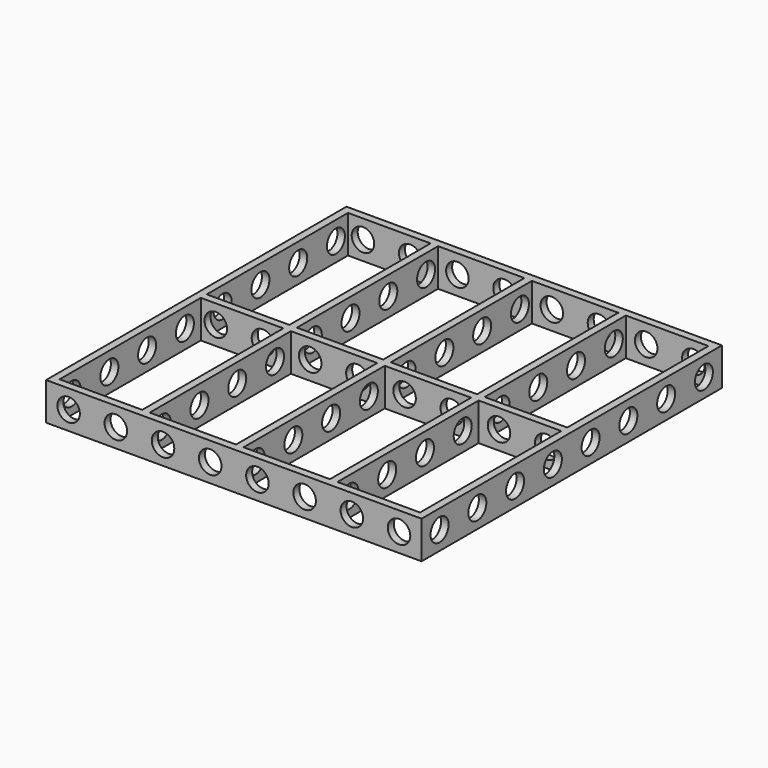
from build123d import *

# Parameters (mm, degrees)
SKETCH_W               = 100
SKETCH_H               = 100
SKETCH_W_2             = 96
SKETCH_H_2             = 96
PAD_DEPTH              = 10
SKETCH001_W            = 2
SKETCH001_H            = 100
PAD001_DEPTH           = 10
LINEARPATTERN_COUNT    = 2
LINEARPATTERN_PITCH    = 25
LINEARPATTERN001_COUNT = 2
LINEARPATTERN001_PITCH = 25
SKETCH002_W            = 100
SKETCH002_H            = 2
PAD002_DEPTH           = 10
SKETCH003_R            = 3
POCKET_DEPTH           = 100.001
LINEARPATTERN002_COUNT = 8
LINEARPATTERN002_PITCH = 12.571429
SKETCH004_R            = 3
POCKET001_DEPTH        = 100.001
LINEARPATTERN003_COUNT = 8
LINEARPATTERN003_PITCH = 12.571429


with BuildPart() as part:
    # Sketch → Pad (new body)
    with BuildSketch(Plane.XY):
        Rectangle(SKETCH_W, SKETCH_H)
        Rectangle(SKETCH_W_2, SKETCH_H_2, mode=Mode.SUBTRACT)
    extrude(amount=PAD_DEPTH)

    # Sketch001 → Pad001 (join)
    with BuildSketch(Plane.XY):
        Rectangle(SKETCH001_W, SKETCH001_H)
    pad001 = extrude(amount=PAD001_DEPTH)

    # LinearPattern: Pad001 ×2
    with Locations(*[(i * LINEARPATTERN_PITCH, 0, 0) for i in range(1, LINEARPATTERN_COUNT)]):
        add(pad001)

    # LinearPattern001: Pad001 ×2
    with Locations(*[(-i * LINEARPATTERN001_PITCH, 0, 0) for i in range(1, LINEARPATTERN001_COUNT)]):
        add(pad001)

    # Sketch002 → Pad002 (join)
    with BuildSketch(Plane.XY):
        Rectangle(SKETCH002_W, SKETCH002_H)
    extrude(amount=PAD002_DEPTH)

    # Sketch003 (on Face76 of Pad002) → Pocket (cut, through all)
    with BuildSketch(Plane.YZ.offset(50)):
        with Locations((-44, 5)):
            Circle(SKETCH003_R)
    pocket = extrude(amount=-POCKET_DEPTH, mode=Mode.SUBTRACT)

    # LinearPattern002: Pocket ×8
    with Locations(*[(0, i * LINEARPATTERN002_PITCH, 0) for i in range(1, LINEARPATTERN002_COUNT)]):
        add(pocket, mode=Mode.SUBTRACT)

    # Sketch004 (on Face83 of LinearPattern002) → Pocket001 (cut, through all)
    with BuildSketch(Plane.XZ.offset(50)):
        with Locations((-44, 5)):
            Circle(SKETCH004_R)
    pocket001 = extrude(amount=-POCKET001_DEPTH, mode=Mode.SUBTRACT)

    # LinearPattern003: Pocket001 ×8
    with Locations(*[(i * LINEARPATTERN003_PITCH, 0, 0) for i in range(1, LINEARPATTERN003_COUNT)]):
        add(pocket001, mode=Mode.SUBTRACT)


solid = part.part
